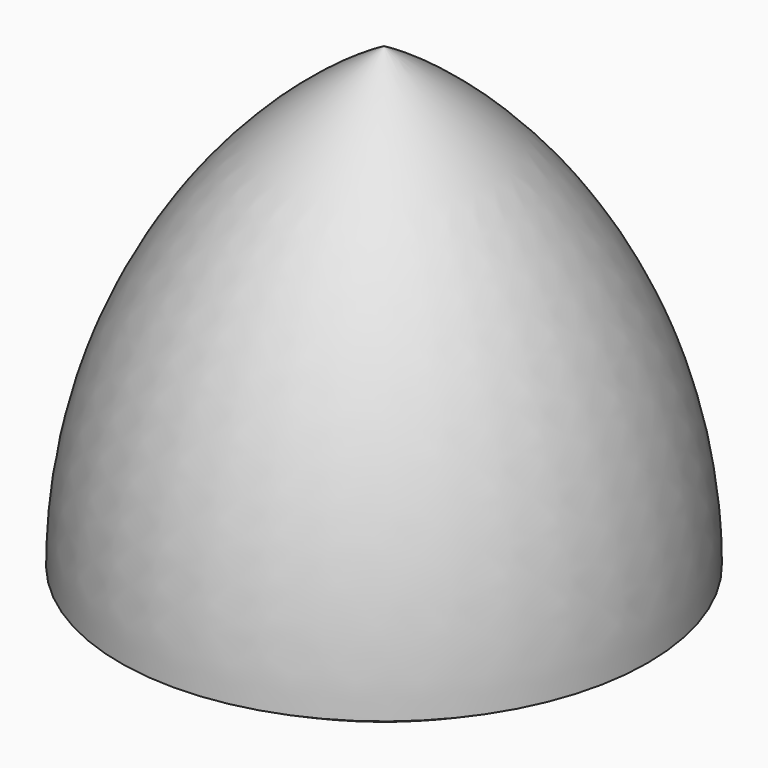
from build123d import *


with BuildPart() as f1:
    # F0 (on Front) → F1 (revolve)
    with BuildSketch(Plane.XZ):
        with BuildLine():
            ThreePointArc((53.7827759981, 93.1545006008), (14.4110513954, 53.7827759981), (0, 0))
            Line((0, 0), (53.7827759981, 93.1545006008))
        make_face()
        Polygon((53.7827759981, 93.1545006008), (0, 0), (53.7827759981, 0), align=None)
        with BuildLine():
            Line((53.7827759981, 0), (0, 0))
            ThreePointArc((0, 0), (25.9427625445, -10.7458440914), (53.7827759981, -14.4110513954))
            Line((53.7827759981, -14.4110513954), (53.7827759981, 0))
        make_face()
    revolve(axis=Axis((53.7827759981, 0, 10.7263156161), (0, 0, -1)))


solid = f1.part
